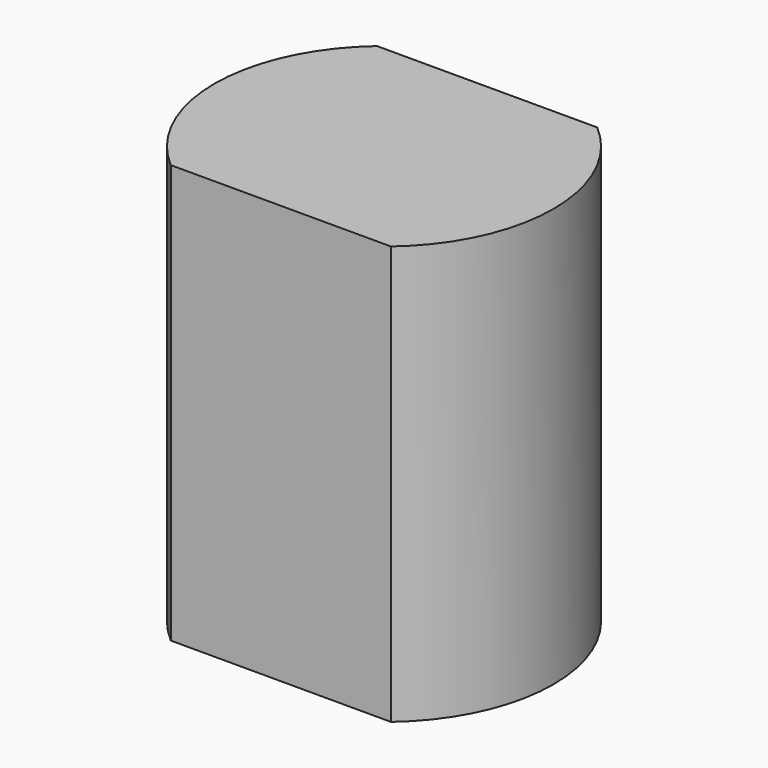
from build123d import *

# Parameters (mm, degrees)
BOX_W          = 25
BOX_H          = 10
BOX_DEPTH      = 30
CYLINDER_R     = 10.125
CYLINDER_DEPTH = 25


with BuildPart() as obj1:
    # Box → Box (new body)
    with BuildSketch(Plane(origin=(-12.5, 7.7, -3), x_dir=(1, 0, 0), z_dir=(0, 0, 1))):
        with Locations((12.5, 5)):
            Rectangle(BOX_W, BOX_H)
    extrude(amount=BOX_DEPTH)


with BuildPart() as obj2:
    # Part__Mirroring: instance of obj1
    add(obj1.part.mirror(Plane(origin=(0, 0, 0), x_dir=(1, 0, 0), z_dir=(0, 1, 0))))

    # Fusion: union obj1
    add(obj1.part)


with BuildPart() as master_cuerpo_motor_con_offset_0_2_mm:
    # Cylinder → Cylinder (new body)
    with BuildSketch(Plane.XY):
        Circle(CYLINDER_R)
    extrude(amount=CYLINDER_DEPTH)

    # Cut: cut obj2
    add(obj2.part, mode=Mode.SUBTRACT)


solid = master_cuerpo_motor_con_offset_0_2_mm.part
